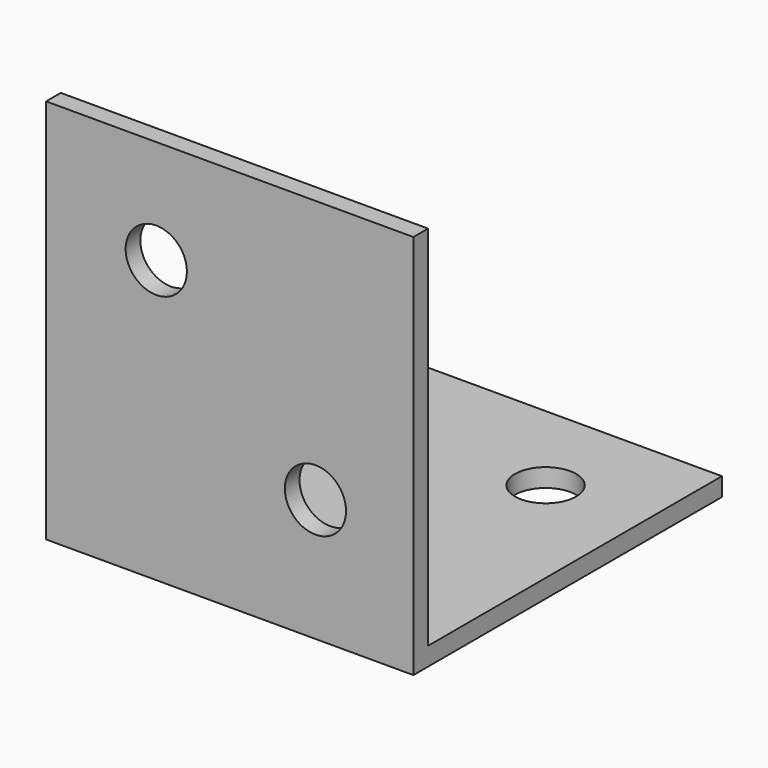
from build123d import *

# Parameters (mm, degrees)
SKETCH_W        = 30
SKETCH_H        = 31.5
PAD_DEPTH       = 1.5
SKETCH001_R     = 2.5
POCKET_DEPTH    = 1.501
SKETCH002_W     = 30
SKETCH002_H     = 1.5
PAD001_DEPTH    = 30
SKETCH003_R     = 2.5
POCKET001_DEPTH = 1.501


with BuildPart() as part:
    # Sketch → Pad (new body)
    with BuildSketch(Plane.XZ):
        with Locations((15, 15.75)):
            Rectangle(SKETCH_W, SKETCH_H)
    extrude(amount=PAD_DEPTH)

    # Sketch001 (on Face6 of Pad) → Pocket (cut, through all)
    with BuildSketch(Plane.XZ.offset(1.5)):
        with Locations((22, 10)):
            Circle(SKETCH001_R)
        with Locations((9, 23)):
            Circle(SKETCH001_R)
    extrude(amount=-POCKET_DEPTH, mode=Mode.SUBTRACT)

    # Sketch002 (on Face4 of Pocket) → Pad001 (join)
    with BuildSketch(Plane(origin=(0, 0, 0), x_dir=(1, 0, 0), z_dir=(0, 1, 0))):
        with Locations((15, -0.75)):
            Rectangle(SKETCH002_W, SKETCH002_H)
    extrude(amount=PAD001_DEPTH)

    # Sketch003 (on Face13 of Pad001) → Pocket001 (cut, through all)
    with BuildSketch(Plane(origin=(0, 0, 1.5), x_dir=(-1, 0, 0), z_dir=(0, 0, 1))):
        with Locations((-9, -9)):
            Circle(SKETCH003_R)
        with Locations((-22, -22)):
            Circle(SKETCH003_R)
    extrude(amount=-POCKET001_DEPTH, mode=Mode.SUBTRACT)


solid = part.part
